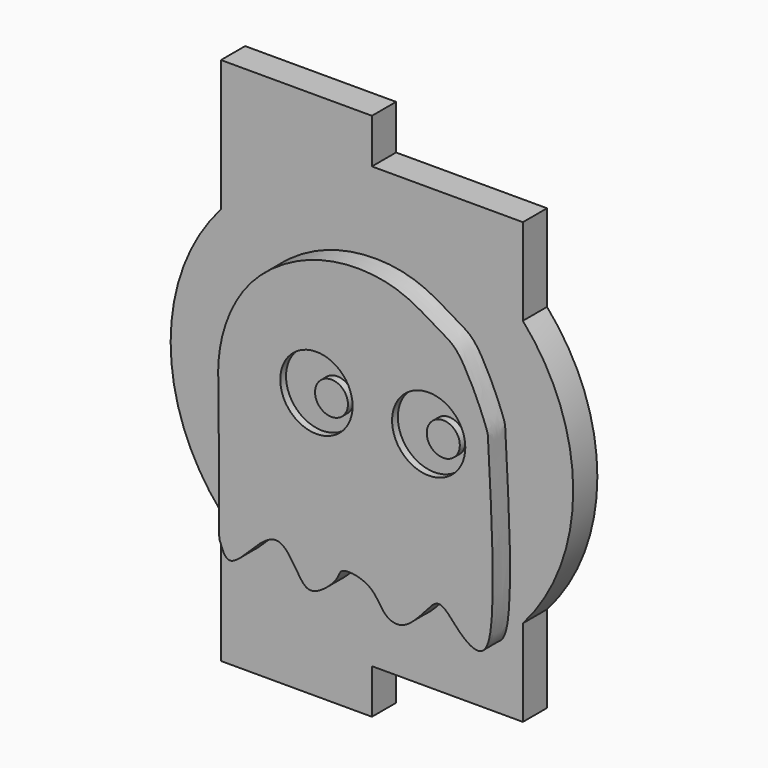
from build123d import *

# Parameters (mm, degrees)
F1_DEPTH = 2.1
F3_DEPTH = 1.5
F4_R     = 2.5151079864
F4_R_2   = 1.1439307613
F4_R_3   = 2.5471732188
F4_R_4   = 1.1511277937
F5_DEPTH = 0.5


with BuildPart() as f1:
    # F0 (on Front) → F1 (new body)
    with BuildSketch(Plane.XZ):
        with BuildLine():
            Line((-10.5, 18.4), (-10.5, 9.2601295887))
            ThreePointArc((-10.5, 9.2601295887), (-14, 0), (-10.5, -9.2601295887))
            Line((-10.5, -9.2601295887), (-10.5, -18.4))
            Line((-10.5, -18.4), (0, -18.4))
            Line((0, -18.4), (0, -15.3))
            Line((0, -15.3), (10.5, -15.3))
            Line((10.5, -15.3), (10.5, -9.2601295887))
            ThreePointArc((10.5, -9.2601295887), (14, 0), (10.5, 9.2601295887))
            Line((10.5, 9.2601295887), (10.5, 15.3))
            Line((10.5, 15.3), (0, 15.3))
            Line((0, 15.3), (0, 18.4))
            Line((0, 18.4), (-10.5, 18.4))
        make_face()
    extrude(amount=F1_DEPTH)

    # F2 (on face) → F3 (join)
    with BuildSketch(Plane.XZ.offset(2.1)):
        with BuildLine():
            add(Edge.make_bspline(
                [(-3.9678597823, 8.8260043412), (-5.3434347506, 8.1923787352), (-7.9157537144, 6.2733525805), (-9.4599614551, 2.3335617511), (-9.5196699849, -0.10470251), (-9.3977979153, -0.3175170876), (-9.5076528386, -10.0279685023), (-9.3614610324, -9.9981630516), (-8.8439348657, -11.8855738729), (-6.7364394934, -9.2140070277), (-4.9960283029, -8.2988293594), (-3.8181232464, -10.694369994), (-2.8904036543, -11.3500343476), (-1.0813196581, -9.8433216687), (-1.056795233, -8.8710785417), (1.3204226306, -9.2249165207), (1.9182090593, -10.9611717914), (3.4641419056, -11.4260297291), (4.9625269458, -9.6585990097), (5.9529950261, -8.5482608222), (7.2023935774, -10.2788861987), (8.5757078298, -11.2364960037), (10.0788069722, -9.9846110082), (9.2185894313, 2.0987722685), (9.3350749351, 2.6026429563), (7.4156868571, 7.0683842776), (5.9374572711, 7.6822898017), (3.5238278197, 9.3743945717), (-0.0550980479, 9.9892269201), (-2.6753532011, 9.4213664877), (-3.9678597823, 8.8260043412)],
                knots=[0, 0, 0, 0, 0.0509232015, 0.1001098359, 0.1339784345, 0.1513713466, 0.2236527642, 0.2364274432, 0.2610071679, 0.2996880313, 0.3301272322, 0.3657247016, 0.3887686084, 0.4227683347, 0.4434594659, 0.4758313203, 0.5071865083, 0.533477873, 0.569005678, 0.5940219846, 0.6257882786, 0.6546836349, 0.6822573152, 0.7633153549, 0.7877889077, 0.837033853, 0.8679875518, 0.9072506452, 0.9521519549, 1, 1, 1, 1], degree=3))
        make_face()
    extrude(amount=F3_DEPTH)

    # F4 (on face) → F5 (cut)
    with BuildSketch(Plane.XZ.offset(3.6)):
        with Locations((-2.6603587625, 1.1782707472)):
            Circle(F4_R)
        with Locations((-1.6129185715, 1.1906070784)):
            Circle(F4_R_2, mode=Mode.SUBTRACT)
        with Locations((5.1484879625, 1.1995154548)):
            Circle(F4_R_3)
        with Locations((6.1628796289, 1.2171427591)):
            Circle(F4_R_4, mode=Mode.SUBTRACT)
    extrude(amount=-F5_DEPTH, mode=Mode.SUBTRACT)


solid = f1.part
